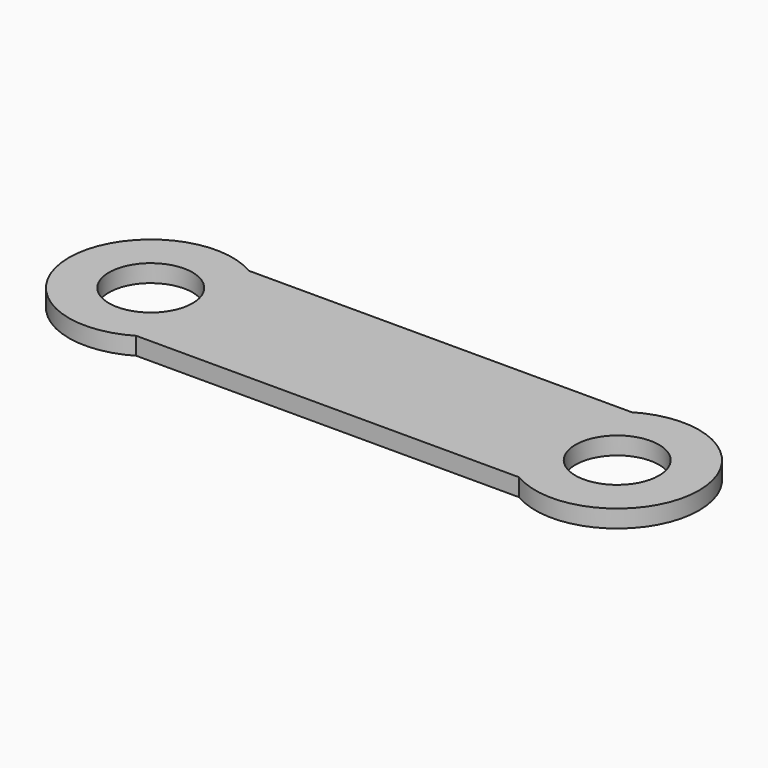
from build123d import *

# Parameters (mm, degrees)
F0_R     = 30.1371
F1_DEPTH = 12.7


with BuildPart() as f1:
    # F0 (on Top) → F1 (new body)
    with BuildSketch(Plane.XY):
        with BuildLine():
            ThreePointArc((0, 101.6), (-89.203883, 50.8), (0, 0))
            Line((0, 0), (276.225, 0))
            ThreePointArc((276.225, 0), (365.428883, 50.8), (276.225, 101.6))
            Line((276.225, 101.6), (0, 101.6))
        make_face()
        with Locations((-30.1371, 50.8)):
            Circle(F0_R, mode=Mode.SUBTRACT)
        with BuildLine():
            ThreePointArc((276.225, 50.8), (306.3621, 80.9371), (336.4992, 50.8))
            ThreePointArc((336.4992, 50.8), (306.3621, 20.6629), (276.225, 50.8))
        make_face(mode=Mode.SUBTRACT)
    extrude(amount=F1_DEPTH)


solid = f1.part
